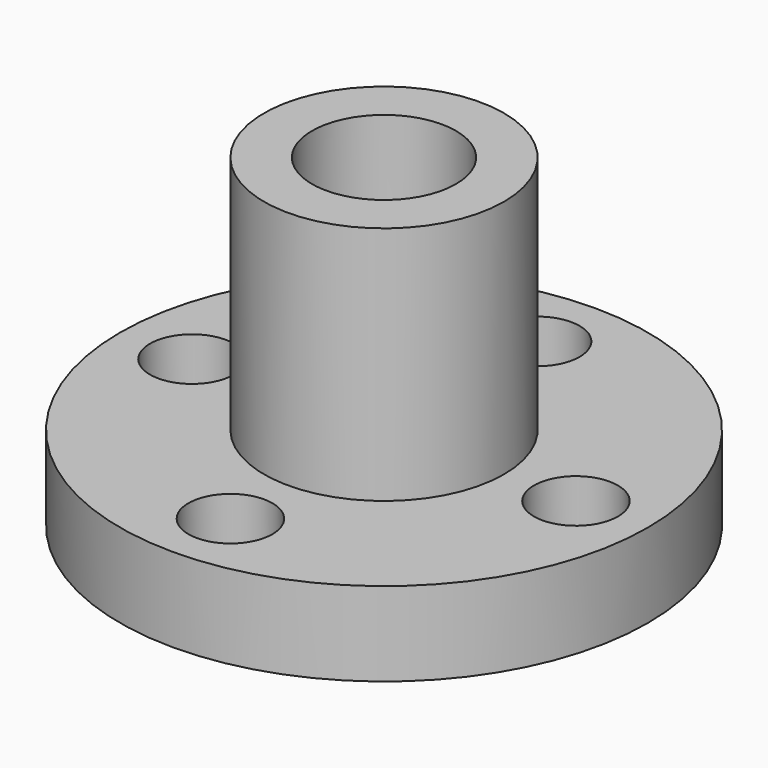
from build123d import *

# Parameters (mm, degrees)
F0_R     = 11
F0_R_2   = 4
F1_DEPTH = 3.5
F2_R     = 5
F2_R_2   = 3
F3_DEPTH = 10
F4_DEPTH = 5
F5_R     = 1.75
F6_DEPTH = 25


with BuildPart() as f1:
    # F0 (on Top) → F1 (new body)
    with BuildSketch(Plane.XY):
        Circle(F0_R)
        Circle(F0_R_2, mode=Mode.SUBTRACT)
    extrude(amount=F1_DEPTH)

    # F2 (on face) → F3 (join)
    with BuildSketch(Plane.XY.offset(3.5)):
        Circle(F2_R)
        Circle(F2_R_2, mode=Mode.SUBTRACT)
    extrude(amount=F3_DEPTH)

    # F2 (on face) → F4 (join)
    with BuildSketch(Plane.XY.offset(3.5)):
        Circle(F2_R)
        Circle(F2_R_2, mode=Mode.SUBTRACT)
    extrude(amount=-F4_DEPTH)

    # F5 (on face) → F6 (cut)
    with BuildSketch(Plane(origin=(0, 0, 0), x_dir=(1, 0, 0), z_dir=(0, 0, -1))):
        with Locations((-8, 0)):
            Circle(F5_R)
        with Locations((0, 8)):
            Circle(F5_R)
        with Locations((8, 0)):
            Circle(F5_R)
        with Locations((0, -8)):
            Circle(F5_R)
    extrude(amount=-F6_DEPTH, mode=Mode.SUBTRACT)


solid = f1.part
